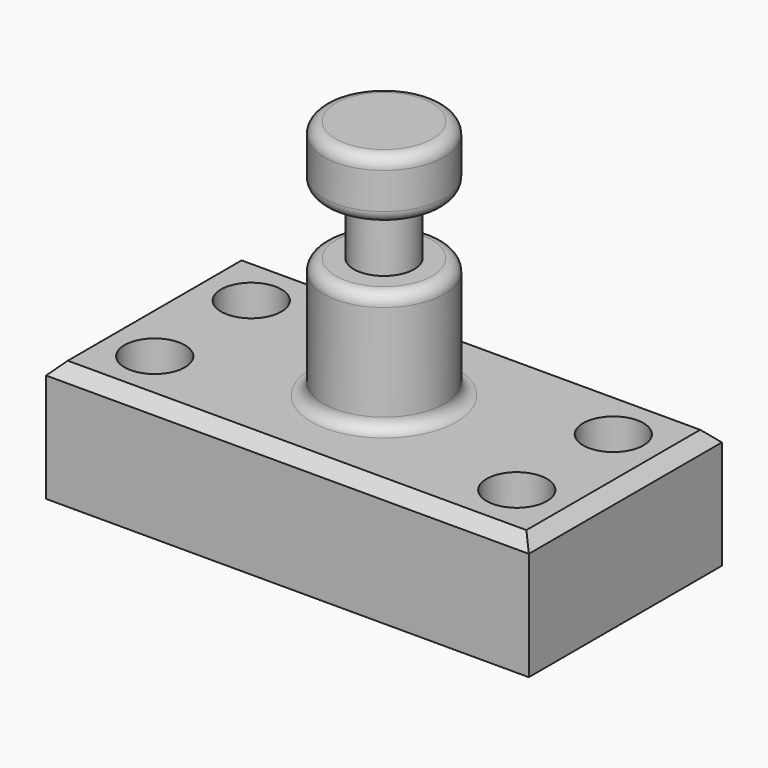
from build123d import *

# Parameters (mm, degrees)
F0_W     = 101.6
F0_H     = 50.8
F1_DEPTH = 25.4
F2_R     = 6.35
F3_DEPTH = 25.401
F4_W     = 12.7
F4_H     = 50.8
F6_W     = 18.9611997128
F6_H     = 12.7
F8_R     = 2.54
F9_SIZE  = 2.54


with BuildPart() as f1:
    # F0 (on Top) → F1 (new body)
    with BuildSketch(Plane.XY):
        Rectangle(F0_W, F0_H)
    extrude(amount=F1_DEPTH)

    # F2 (on face) → F3 (cut, through all)
    with BuildSketch(Plane.XY.offset(25.4)):
        with Locations((38.1, -12.7)):
            Circle(F2_R)
        with Locations((38.1, 12.7)):
            Circle(F2_R)
        with Locations((-38.1, 12.7)):
            Circle(F2_R)
        with Locations((-38.1, -12.7)):
            Circle(F2_R)
    extrude(amount=-F3_DEPTH, mode=Mode.SUBTRACT)

    # F4 (on Front) → F5 (revolve)
    with BuildSketch(Plane.XZ):
        with Locations((-6.35, 50.8)):
            Rectangle(F4_W, F4_H)
    revolve(axis=Axis((0, 0, 50.8), (0, 0, 1)))

    # F6 (on Front) → F7 (revolve, cut)
    with BuildSketch(Plane.XZ):
        with Locations((-15.8305998564, 57.15)):
            Rectangle(F6_W, F6_H)
    revolve(axis=Axis((0, 0, 46.6448366642), (0, 0, 1)), mode=Mode.SUBTRACT)

    # F8
    f8_edges = [f1.edges().sort_by_distance(p)[0] for p in [
        (12.7, 0, 50.8),
        (12.7, 0, 76.2),
        (12.7, 0, 25.4),
        (12.7, 0, 63.5),
    ]]
    fillet(f8_edges, radius=F8_R)

    # F9
    f9_edges = [f1.edges().sort_by_distance(p)[0] for p in [
        (0, 25.4, 25.4),
        (50.8, 0, 25.4),
        (0, -25.4, 25.4),
        (-50.8, 0, 25.4),
    ]]
    chamfer(f9_edges, length=F9_SIZE)


solid = f1.part
